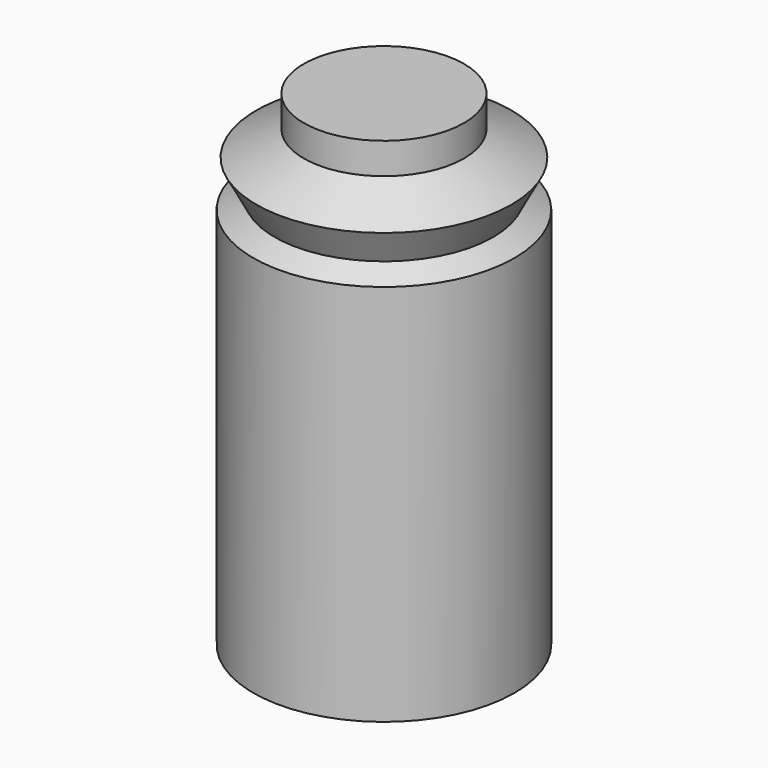
from build123d import *


with BuildPart() as f1:
    # F0 (on Front) → F1 (revolve)
    with BuildSketch(Plane.XZ):
        Polygon((24.926189, 75.470962), (0, 75.470962), (0, -75.470954), (40.648924, -75.470954), (40.648924, 43.620129), (33.977756, 47.164189), (39.69726, 57.930309), (24.926189, 65.777443), align=None)
    revolve(axis=Axis((0, 0, 4e-06), (0, 0, 1)))


solid = f1.part
